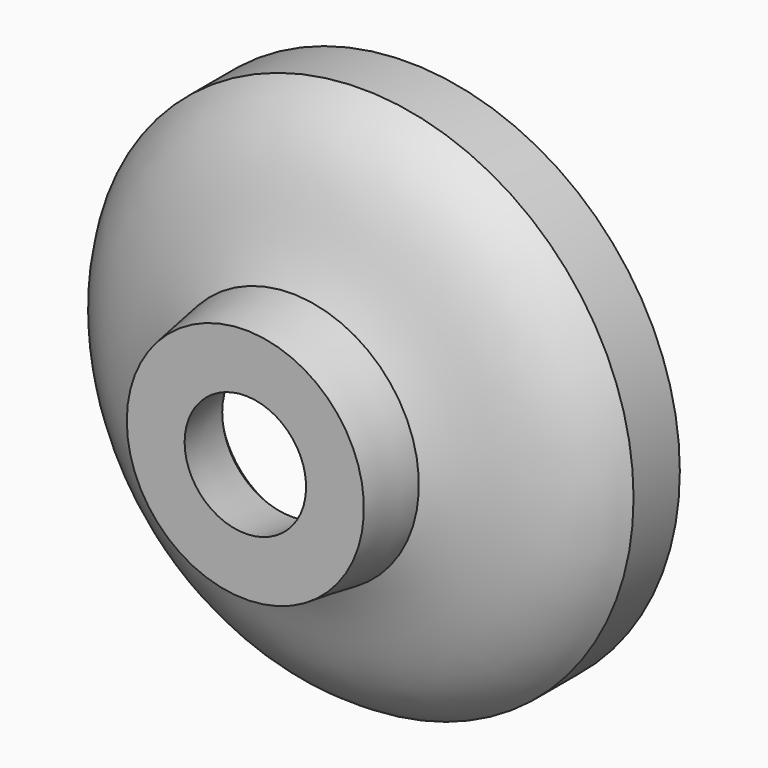
from build123d import *


with BuildPart() as f3:
    # F1 (on Top) → F3 (revolve)
    with BuildSketch(Plane.XY):
        with BuildLine():
            Line((-2.2, -2.4), (-2.05, -3.4))
            Line((-2.05, -3.4), (-1.05, -3.4))
            Line((-1.05, -3.4), (-1.2, -2.4))
            add(Edge.make_bspline(
                [(-4.697655, 0.117337), (-3.297621, -1.686888), (-2.149483, -1.285519), (-1.2, -2.4)],
                knots=[0, 0, 0, 0, 4.309359, 4.309359, 4.309359, 4.309359], degree=3))
            Line((-4.697655, 0.117337), (-4.697655, -0.882663))
            add(Edge.make_bspline(
                [(-2.2, -2.4), (-3.032552, -1.894221), (-4.089907, -1.951555), (-4.697655, -0.882663)],
                knots=[0, 0, 0, 0, 2.922429, 2.922429, 2.922429, 2.922429], degree=3))
        make_face()
    revolve(axis=Axis((0, -2.291803, 0), (0, -1, 0)))


solid = f3.part
